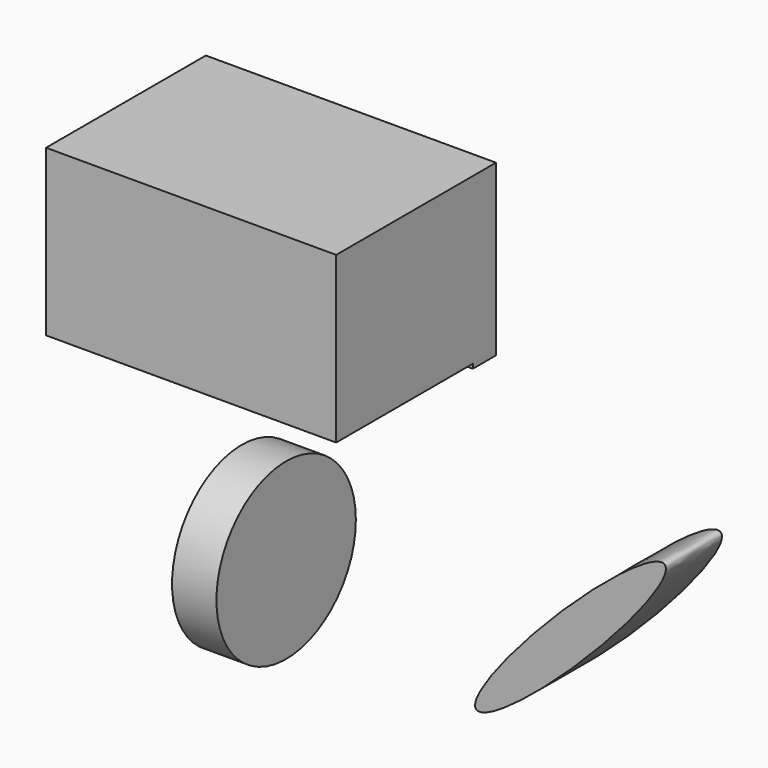
from build123d import *

# Parameters (mm, degrees)
F0_R     = 22.6430221655
F1_DEPTH = 11.537740007
F4_DEPTH = 25.4
F5_DEPTH = 50
F7_START = -25.399999693
F7_DEPTH = 18.2073842734


with BuildPart() as f1:
    # F0 (on Right) → F1 (new body)
    with BuildSketch(Plane.YZ):
        with Locations((-60.6705956161, 82.7760472894)):
            Circle(F0_R)
    extrude(amount=F1_DEPTH)


with BuildPart() as f4:
    # F3 (on face) → F4 (new body)
    with BuildSketch(Plane.YZ.offset(11.537740007)):
        Polygon((-44.416218996, 103.0612364411), (0, 103.0612364411), (0, 101.899959147), (7.4902996421, 101.899959147), (7.4902996421, 146.0065096617), (-44.416218996, 146.0065096617), align=None)
    extrude(amount=-F4_DEPTH)

    # F5 (add): a face of the model
    f5_faces = [f4.faces().sort_by_distance(p)[0] for p in [
        (-13.862259993, -18.3766383548, 124.4481535588),
    ]]
    extrude(f5_faces, amount=F5_DEPTH)


with BuildPart() as f7:
    # F6 (on Front) → F7 (new body)
    with BuildSketch(Plane.XZ.offset(F7_START)):
        with BuildLine():
            add(Edge.make_bspline(
                [(41.0911589861, 56.3310682774), (34.6054481336, 62.8171064385), (1.0852594857, 22.8128984783), (-32.4349291623, -17.1913094819), (7.5709703382, 16.3268603172), (47.5768698386, 49.8450301162), (41.0911589861, 56.3310682774)],
                knots=[0, 0, 0, 2.0943951024, 2.0943951024, 4.1887902048, 4.1887902048, 6.2831853072, 6.2831853072, 6.2831853072], degree=2, weights=[1, 0.5, 1, 0.5, 1, 0.5, 1]))
        make_face()
    extrude(amount=-F7_DEPTH)


solid = Compound([f1.part, f4.part, f7.part])
